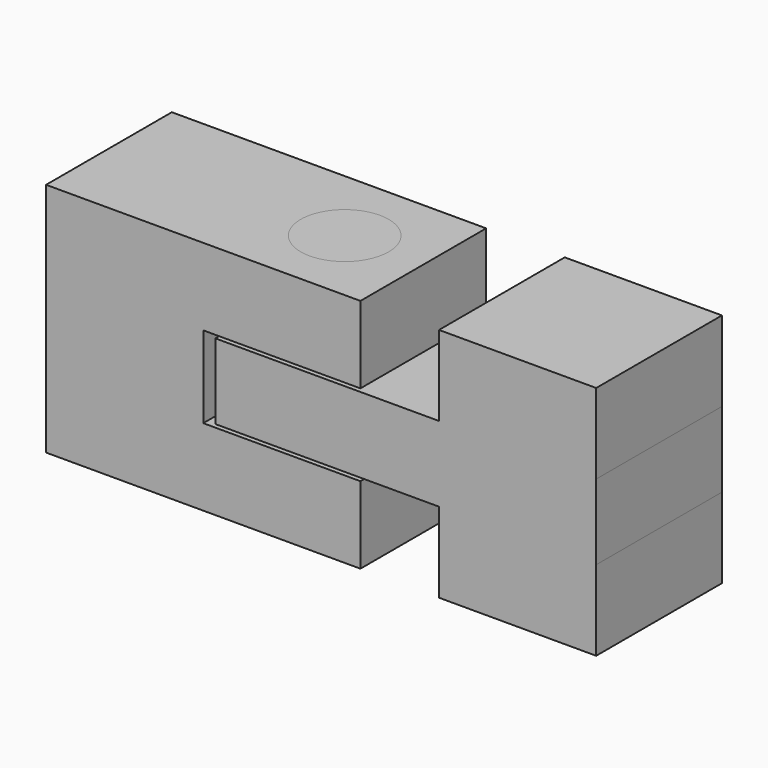
from build123d import *

# Parameters (mm, degrees)
SKETCH_W       = 20
SKETCH_H       = 10
PAD_DEPTH      = 4.9
SKETCH001_W    = 10
SKETCH001_H    = 10
PAD001_DEPTH   = 5.2
SKETCH002_W    = 20
SKETCH002_H    = 10
PAD002_DEPTH   = 4.9
SKETCH004_W    = 10
SKETCH004_H    = 10
PAD003_DEPTH   = 5.1
SKETCH005_W    = 24.232915
SKETCH005_H    = 10
PAD004_DEPTH   = 4.8
SKETCH006_W    = 10
SKETCH006_H    = 10
PAD005_DEPTH   = 5.1
CYLINDER_R     = 2.8
CYLINDER_DEPTH = 15


with BuildPart() as pad002:
    # Sketch → Pad (new body)
    with BuildSketch(Plane.XY):
        Rectangle(SKETCH_W, SKETCH_H)
    extrude(amount=PAD_DEPTH)

    # Sketch001 → Pad001 (new body)
    with BuildSketch(Plane.XY.offset(4.9)):
        with Locations((-5, 0)):
            Rectangle(SKETCH001_W, SKETCH001_H)
    extrude(amount=PAD001_DEPTH)

    # Sketch002 → Pad002 (new body)
    with BuildSketch(Plane.XY.offset(10.1)):
        Rectangle(SKETCH002_W, SKETCH002_H)
    extrude(amount=PAD002_DEPTH)


with BuildPart() as pad005:
    # Sketch004 → Pad003 (new body)
    with BuildSketch(Plane.XY):
        with Locations((20, 0)):
            Rectangle(SKETCH004_W, SKETCH004_H)
    extrude(amount=PAD003_DEPTH)

    # Sketch005 → Pad004 (new body)
    with BuildSketch(Plane.XY.offset(5.1)):
        with Locations((12.883543, 0)):
            Rectangle(SKETCH005_W, SKETCH005_H)
    extrude(amount=PAD004_DEPTH)

    # Sketch006 → Pad005 (new body)
    with BuildSketch(Plane.XY.offset(9.9)):
        with Locations((20, 0)):
            Rectangle(SKETCH006_W, SKETCH006_H)
    extrude(amount=PAD005_DEPTH)


with BuildPart() as cylinder:
    # Cylinder → Cylinder (new body)
    with BuildSketch(Plane(origin=(5, 0, 0), x_dir=(1, 0, 0), z_dir=(0, 0, 1))):
        Circle(CYLINDER_R)
    extrude(amount=CYLINDER_DEPTH)


solid = Compound([pad002.part, pad005.part, cylinder.part])
